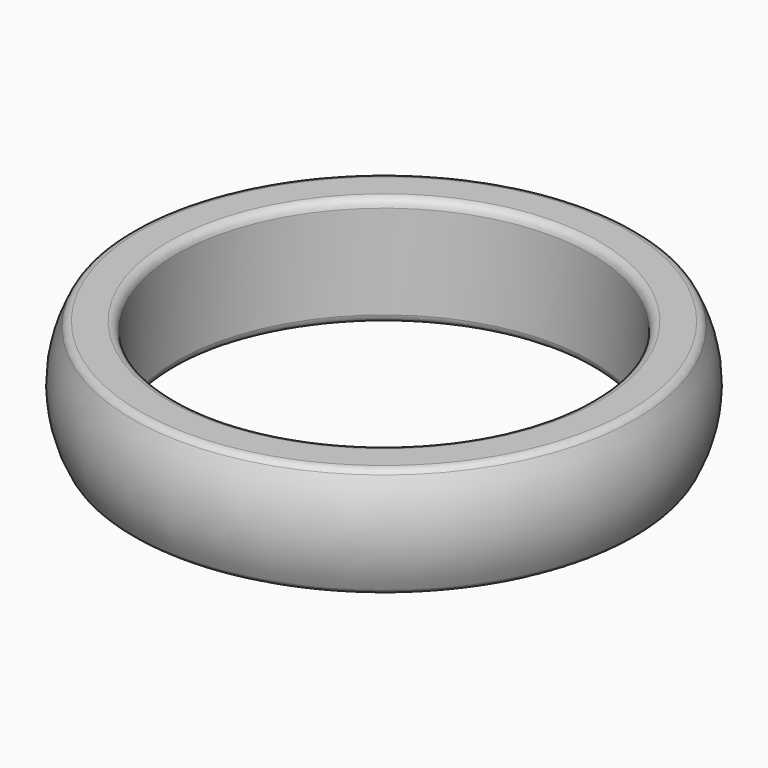
from build123d import *

# Parameters (mm, degrees)
F3_R = 0.3


with BuildPart() as f2:
    # F2: sweep along a path in F0
    with BuildLine(Plane.XY) as f2_path:
        CenterArc((0, 0), 7.5, 0, 360)
    # F1 (on Front) → F2 (sweep)
    with BuildSketch(Plane.XZ):
        with BuildLine():
            Line((7.5, 4), (7.5, 0))
            Line((7.5, 0), (9.0141, 0))
            ThreePointArc((9.0141, 0), (9.5499983849, 2), (9.0141, 4))
            Line((9.0141, 4), (7.5, 4))
        make_face()
    sweep(path=f2_path.line)

    # F3
    f3_edges = [f2.edges().sort_by_distance(p)[0] for p in [
        (-7.5, 0, 4),
        (-7.5, 0, 0),
        (-9.0141, 0, 4),
        (-9.0141, 0, 0),
    ]]
    fillet(f3_edges, radius=F3_R)


solid = f2.part
